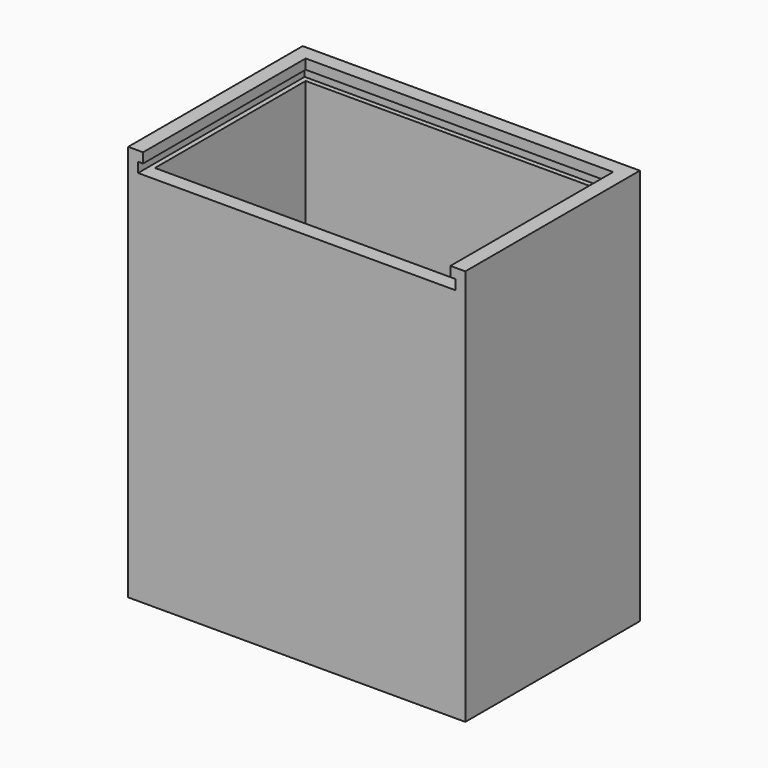
from build123d import *

# Parameters (mm, degrees)
SKETCH_W        = 34
SKETCH_H        = 22
PAD_DEPTH       = 40
SKETCH001_W     = 31
SKETCH001_H     = 19
POCKET_DEPTH    = 38.5
SKETCH002_R     = 2.7
SKETCH002_W     = 7
SKETCH002_H     = 9
POCKET001_DEPTH = 40.001
SKETCH003_W     = 31
SKETCH003_H     = 2
POCKET002_DEPTH = 1.5
SKETCH004_W     = 21
SKETCH004_H     = 1
POCKET003_DEPTH = 0.5
SKETCH009_W     = 32
SKETCH009_H     = 1
POCKET007_DEPTH = 0.5
SKETCH006_W     = 31.8
SKETCH006_H     = 19.8
PAD001_DEPTH    = 0.8
SKETCH007_W     = 12
SKETCH007_H     = 4.5
POCKET005_DEPTH = 0.801
SKETCH008_W     = 5
SKETCH008_H     = 1.5
POCKET006_DEPTH = 0.801


with BuildPart() as body:
    # Sketch → Pad (new body)
    with BuildSketch(Plane.XY):
        Rectangle(SKETCH_W, SKETCH_H)
    extrude(amount=PAD_DEPTH)

    # Sketch001 (on Face6 of Pad) → Pocket (cut)
    with BuildSketch(Plane.XY.offset(40)):
        Rectangle(SKETCH001_W, SKETCH001_H)
    extrude(amount=-POCKET_DEPTH, mode=Mode.SUBTRACT)

    # Sketch002 (on Face4 of Pocket) → Pocket001 (cut, through all)
    with BuildSketch(Plane(origin=(0, 0, 0), x_dir=(1, 0, 0), z_dir=(0, 0, -1))):
        with Locations((-4, -6.4)):
            Circle(SKETCH002_R)
        with Locations((4.5, -1.9)):
            Rectangle(SKETCH002_W, SKETCH002_H)
    extrude(amount=-POCKET001_DEPTH, mode=Mode.SUBTRACT)

    # Sketch003 (on Face6 of Pocket001) → Pocket002 (cut)
    with BuildSketch(Plane.XZ.offset(11)):
        with Locations((0, 39)):
            Rectangle(SKETCH003_W, SKETCH003_H)
    extrude(amount=-POCKET002_DEPTH, mode=Mode.SUBTRACT)

    # Sketch004 (on Face16 of Pocket002) → Pocket003 (cut)
    with BuildSketch(Plane(origin=(15.5, 0, 0), x_dir=(0, -1, 0), z_dir=(-1, 0, 0))):
        with Locations((0.5, 38.5)):
            Rectangle(SKETCH004_W, SKETCH004_H)
    pocket003 = extrude(amount=-POCKET003_DEPTH, mode=Mode.SUBTRACT)

    # Mirrored: Pocket003 across YZ
    add(pocket003.mirror(Plane.YZ), mode=Mode.SUBTRACT)

    # Sketch009 (on Face14 of Mirrored) → Pocket007 (cut)
    with BuildSketch(Plane.XZ.offset(-9.5)):
        with Locations((0, 38.5)):
            Rectangle(SKETCH009_W, SKETCH009_H)
    extrude(amount=-POCKET007_DEPTH, mode=Mode.SUBTRACT)


with BuildPart() as top:
    # Sketch006 → Pad001 (new body)
    with BuildSketch(Plane.XY):
        Rectangle(SKETCH006_W, SKETCH006_H)
    extrude(amount=PAD001_DEPTH)

    # Sketch007 (on Face6 of Pad001) → Pocket005 (cut, through all)
    with BuildSketch(Plane.XY.offset(0.8)):
        with Locations((-0.5, 7.65)):
            Rectangle(SKETCH007_W, SKETCH007_H)
    extrude(amount=-POCKET005_DEPTH, mode=Mode.SUBTRACT)

    # Sketch008 (on Face4 of Pocket005) → Pocket006 (cut, through all)
    with BuildSketch(Plane.XY.offset(0.8)):
        with Locations((0, -5.15)):
            Rectangle(SKETCH008_W, SKETCH008_H)
    extrude(amount=-POCKET006_DEPTH, mode=Mode.SUBTRACT)


solid = Compound([body.part, top.part])
